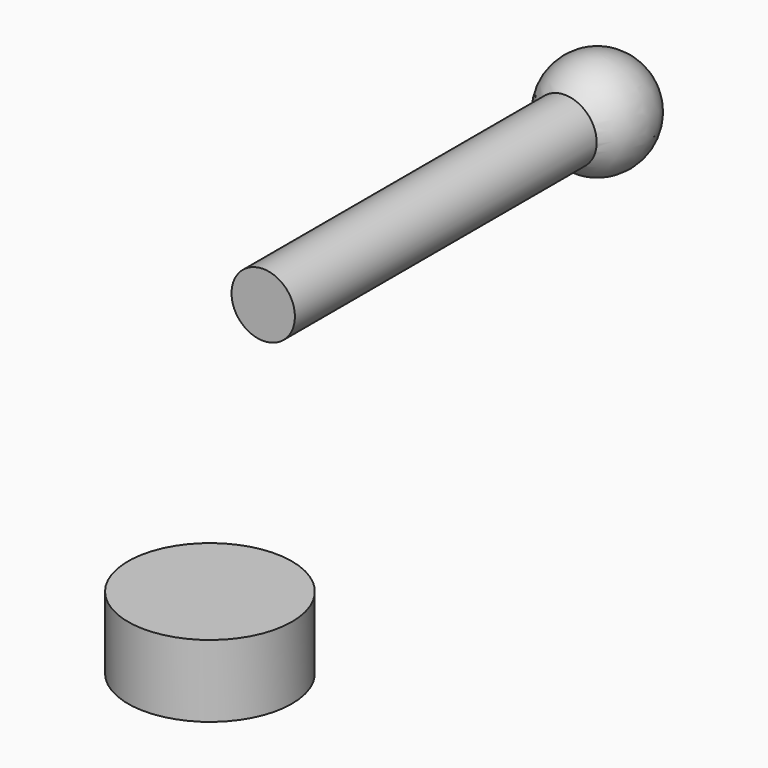
from build123d import *

# Parameters (mm, degrees)
F0_R     = 0.835
F1_DEPTH = 11
F4_R     = 2.159
F5_DEPTH = 1.9
F6_R     = 0.68
F7_DEPTH = 0.33


with BuildPart() as f1:
    # F0 (on Front) → F1 (new body)
    with BuildSketch(Plane.XZ):
        with Locations((-8.943764, 7.866043)):
            Circle(F0_R)
    extrude(amount=F1_DEPTH)

    # F2 (on Front) → F3 (revolve)
    with BuildSketch(Plane.XZ):
        with BuildLine():
            Line((-8.945227, 9.224505), (-8.945227, 6.514505))
            ThreePointArc((-8.945227, 6.514505), (-7.590227, 7.869505), (-8.945227, 9.224505))
        make_face()
    revolve(axis=Axis((-8.945227, 0, 7.869505), (0, 0, 1)))


with BuildPart() as f5:
    # F4 (on Top) → F5 (new body)
    with BuildSketch(Plane.XY):
        with Locations((-8.982735, -12.704769)):
            Circle(F4_R)
    extrude(amount=F5_DEPTH)


with BuildPart() as f7:
    # F6 (on Top) → F7 (new body)
    with BuildSketch(Plane.XY):
        with Locations((-8.995413, -12.699911)):
            Circle(F6_R)
    extrude(amount=F7_DEPTH)


solid = Compound([f1.part, f5.part, f7.part])
